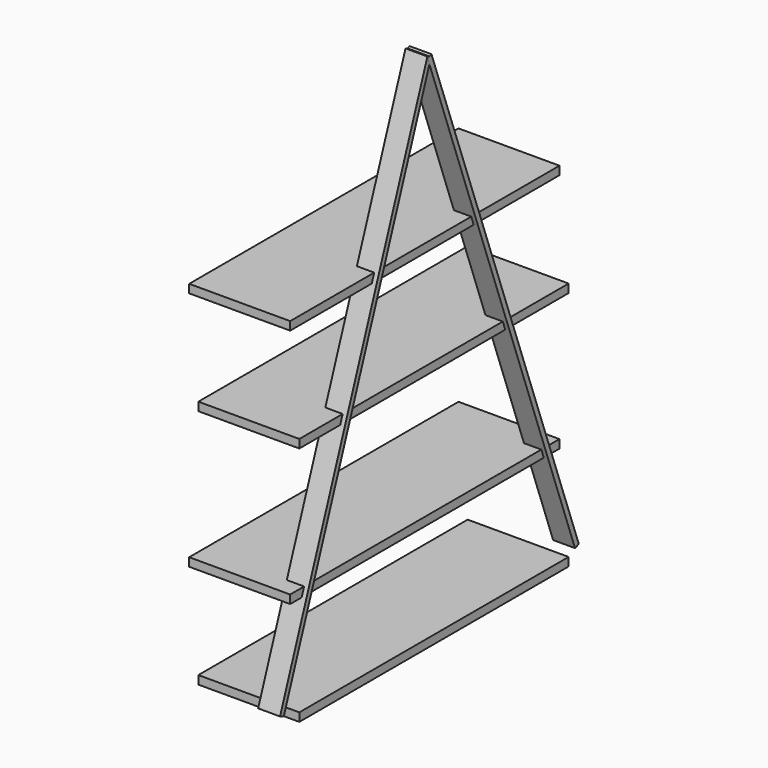
from build123d import *

# Parameters (mm, degrees)
F0_W     = 65
F0_H     = 1600
F1_DEPTH = 15
F2_ANGLE = -20
F3_ANGLE = 20
F4_W     = 300
F4_H     = 1000
F5_DEPTH = 25


with BuildPart() as f1:
    # F0 (on Front) → F1 (new body)
    with BuildSketch(Plane.XZ):
        with Locations((-19.0074841678, 752.992733568)):
            Rectangle(F0_W, F0_H)
    extrude(amount=F1_DEPTH)


with BuildPart() as f2_1:
    # F2: copy of F1
    add(f1.part.rotate(Axis((-19.0074841678, 0, 1552.992733568), (1, 0, 0)), F2_ANGLE))


with BuildPart() as f1_1:
    # F3: moved
    add(f1.part.rotate(Axis((-19.0074841678, -14.0953893118, 1558.1230357178), (1, 0, 0)), F3_ANGLE))


with BuildPart() as f5:
    # F4 (on Top) → F5 (new body)
    with BuildSketch(Plane.XY):
        with Locations((-150, 27.1834456354)):
            Rectangle(F4_W, F4_H)
    extrude(amount=F5_DEPTH)


with BuildPart() as f6_1:
    # F6: copy of F5
    add(f5.part.moved(Location((0, -34, 322))))


with BuildPart() as f7_1:
    # F7: copy of F5
    add(f5.part.moved(Location((0, 0, 715))))


with BuildPart() as f7_2:
    # F7: copy of F6_1
    add(f6_1.part.moved(Location((0, 0, 715))))


solid = Compound([f2_1.part, f1_1.part, f5.part, f6_1.part, f7_1.part, f7_2.part])
